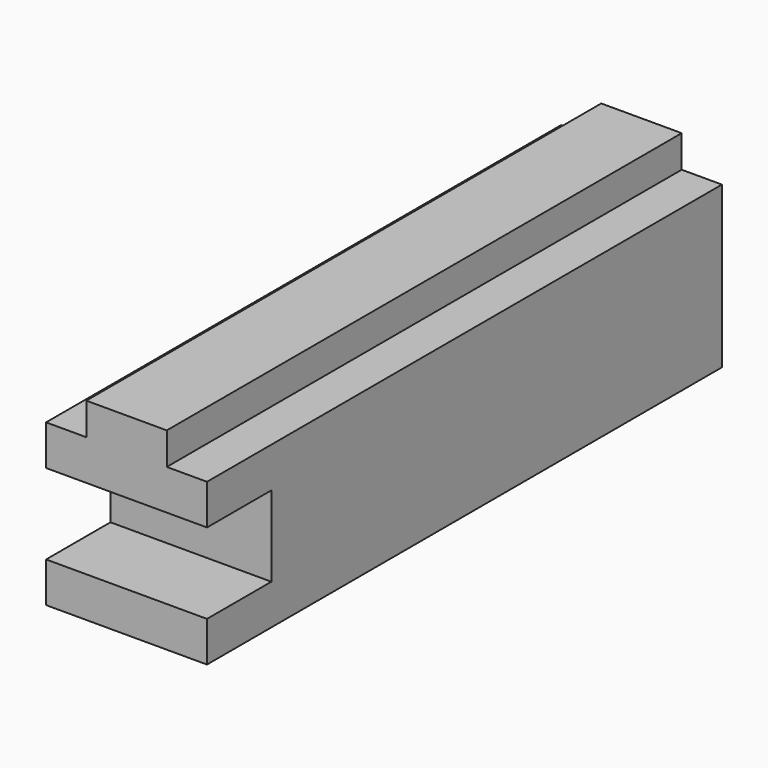
from build123d import *

# Parameters (mm, degrees)
F0_W     = 400
F0_H     = 100
F1_DEPTH = 100
F2_W     = 50
F2_H     = 50
F3_DEPTH = 100
F4_W     = 50
F4_H     = 400
F5_DEPTH = 20


with BuildPart() as f1:
    # F0 (on Right) → F1 (new body)
    with BuildSketch(Plane.YZ):
        with Locations((-6.60181, 8.23221)):
            Rectangle(F0_W, F0_H)
    extrude(amount=F1_DEPTH)

    # F2 (on face) → F3 (cut)
    with BuildSketch(Plane.YZ.offset(100)):
        with Locations((-181.60181, 8.23221)):
            Rectangle(F2_W, F2_H)
    extrude(amount=-F3_DEPTH, mode=Mode.SUBTRACT)

    # F4 (on face) → F5 (join)
    with BuildSketch(Plane.XY.offset(58.23221)):
        with Locations((50, -6.60181)):
            Rectangle(F4_W, F4_H)
    extrude(amount=F5_DEPTH)


solid = f1.part
